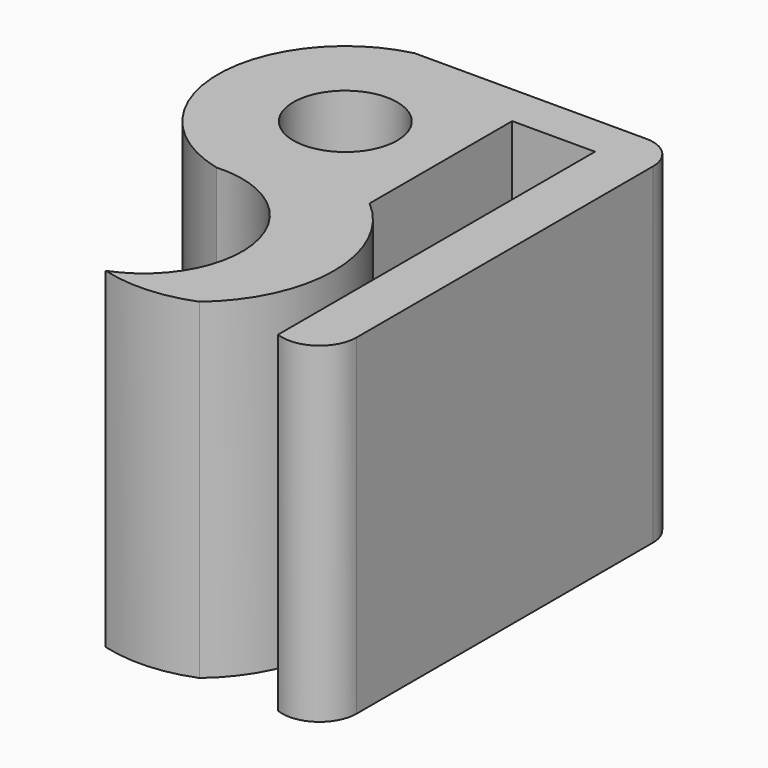
from build123d import *

# Parameters (mm, degrees)
F0_R     = 3.982588
F1_DEPTH = 25.4


with BuildPart() as f1:
    # F0 (on Top) → F1 (new body)
    with BuildSketch(Plane.XY):
        with BuildLine():
            ThreePointArc((-10.250391, 8.447082), (-6.45395, 16.609431), (-10.250391, 24.77178))
            Line((-10.250391, 24.77178), (-10.250391, 38.438968))
            Line((-10.250391, 38.438968), (-3.900391, 38.438968))
            Line((-3.900391, 38.438968), (-3.900391, 8.067437))
            ThreePointArc((-3.900391, 8.067437), (-1.247671, 8.365105), (0, 10.724947))
            Line((0, 10.724947), (0, 39.125941))
            ThreePointArc((0, 39.125941), (-0.743949, 40.921993), (-2.54, 41.665941))
            Line((-2.54, 41.665941), (-20.310961, 41.665941))
            ThreePointArc((-20.310961, 41.665941), (-27.793714, 32.174841), (-20.310961, 22.68374))
            ThreePointArc((-20.310961, 22.68374), (-12.479962, 16.741734), (-17.126696, 8.07918))
            ThreePointArc((-17.126696, 8.07918), (-13.658499, 7.701584), (-10.250391, 8.447082))
        make_face()
        with Locations((-18.033097, 32.174841)):
            Circle(F0_R, mode=Mode.SUBTRACT)
    extrude(amount=F1_DEPTH)


solid = f1.part
